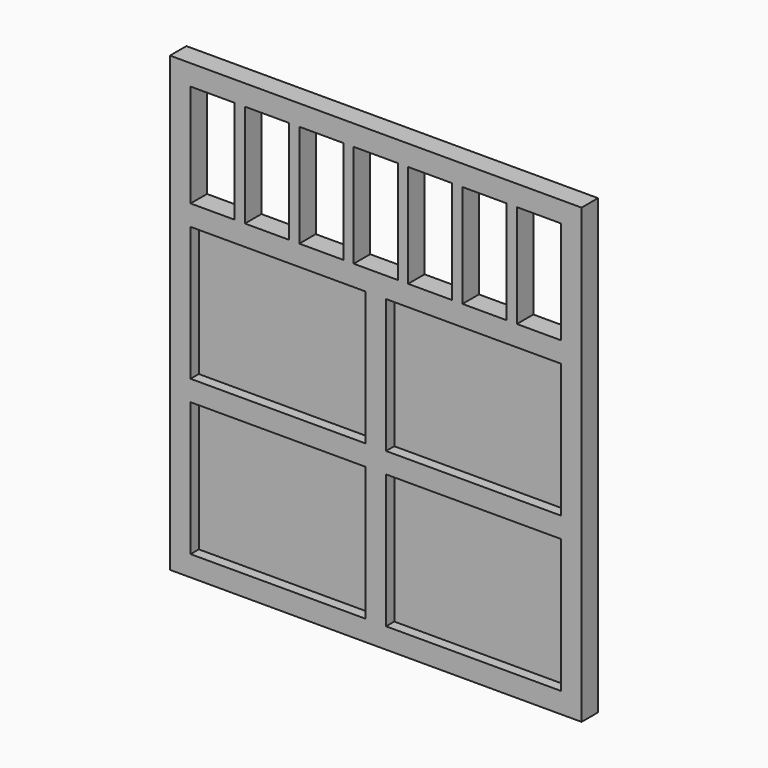
from build123d import *

# Parameters (mm, degrees)
SKETCH_W        = 20
SKETCH_H        = 22
PAD_DEPTH       = 1
SKETCH001_W     = 8.5
SKETCH001_H     = 6.5
POCKET_DEPTH    = 0.5
SKETCH002_W     = 2.142857
SKETCH002_H     = 5
SKETCH002_W_2   = 2.142858
POCKET001_DEPTH = 5


with BuildPart() as part:
    # Sketch → Pad (new body)
    with BuildSketch(Plane.XZ):
        Rectangle(SKETCH_W, SKETCH_H)
    extrude(amount=PAD_DEPTH)

    # Sketch001 (on Face6 of Pad) → Pocket (cut)
    with BuildSketch(Plane.XZ.offset(1)):
        with Locations((-4.75, 0.75)):
            Rectangle(SKETCH001_W, SKETCH001_H)
        with Locations((-4.75, -6.75)):
            Rectangle(SKETCH001_W, SKETCH001_H)
        with Locations((4.75, 0.75)):
            Rectangle(SKETCH001_W, SKETCH001_H)
        with Locations((4.75, -6.75)):
            Rectangle(SKETCH001_W, SKETCH001_H)
    extrude(amount=-POCKET_DEPTH, mode=Mode.SUBTRACT)

    # Sketch002 (on Face5 of Pocket) → Pocket001 (cut)
    with BuildSketch(Plane.XZ.offset(1)):
        with Locations((-7.928572, 7.5)):
            Rectangle(SKETCH002_W, SKETCH002_H)
        with Locations((-5.285714, 7.5)):
            Rectangle(SKETCH002_W, SKETCH002_H)
        with Locations((-2.642857, 7.5)):
            Rectangle(SKETCH002_W, SKETCH002_H)
        with Locations((0, 7.5)):
            Rectangle(SKETCH002_W_2, SKETCH002_H)
        with Locations((2.642857, 7.5)):
            Rectangle(SKETCH002_W, SKETCH002_H)
        with Locations((5.285714, 7.5)):
            Rectangle(SKETCH002_W, SKETCH002_H)
        with Locations((7.928572, 7.5)):
            Rectangle(SKETCH002_W, SKETCH002_H)
    extrude(amount=-POCKET001_DEPTH, mode=Mode.SUBTRACT)


solid = part.part
